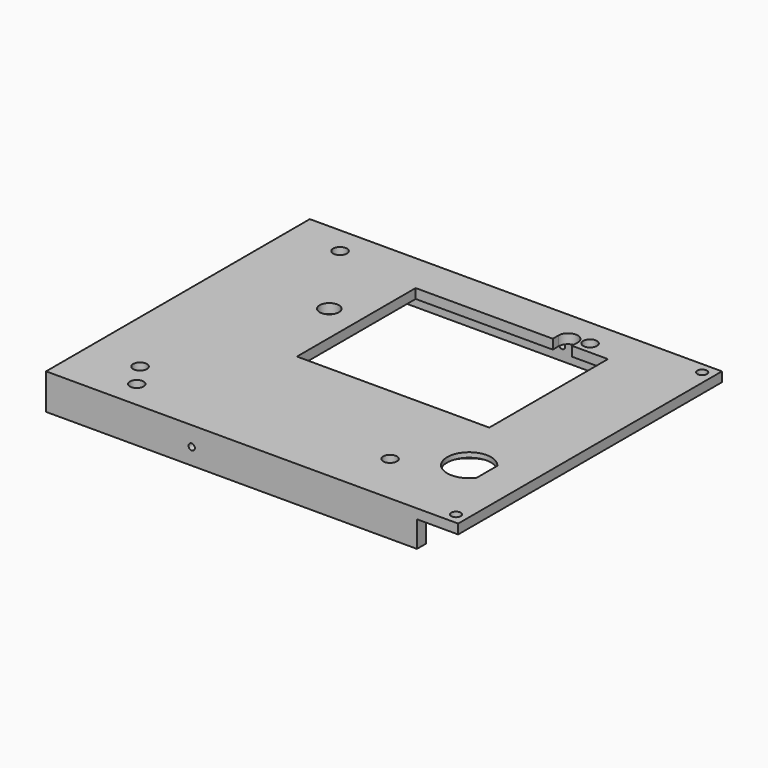
from build123d import *

# Parameters (mm, degrees)
COPYSKETCH010_W   = 150
COPYSKETCH010_H   = 120
COPYSKETCH010_R   = 2.5
COPYSKETCH010_R_2 = 3.5
COPYSKETCH010_R_3 = 1.75
PAD_DEPTH         = 3.5
PAD001_DEPTH      = 13
SKETCH001_R       = 1.75
POCKET_DEPTH      = 5
SKETCH002_R       = 1.15
POCKET001_DEPTH   = 5
SKETCH003_R       = 1.15
POCKET002_DEPTH   = 5
SKETCH004_R       = 11
POCKET003_DEPTH   = 1.75


with BuildPart() as part:
    # CopySketch010 → Pad (new body)
    with BuildSketch(Plane(origin=(0, 0, 0), x_dir=(-1, 0, 0), z_dir=(0, 0, -1))):
        with Locations((-75, 0)):
            Rectangle(COPYSKETCH010_W, COPYSKETCH010_H)
        with Locations((-110, 50)):
            Circle(COPYSKETCH010_R, mode=Mode.SUBTRACT)
        with Locations((-110, -41)):
            Circle(COPYSKETCH010_R, mode=Mode.SUBTRACT)
        with Locations((-19, -41)):
            Circle(COPYSKETCH010_R, mode=Mode.SUBTRACT)
        with Locations((-19, 50)):
            Circle(COPYSKETCH010_R, mode=Mode.SUBTRACT)
        with Locations((-38.79, 20.377)):
            Circle(COPYSKETCH010_R_2, mode=Mode.SUBTRACT)
        with Locations((-146, 56)):
            Circle(COPYSKETCH010_R_3, mode=Mode.SUBTRACT)
        with Locations((-146, -56)):
            Circle(COPYSKETCH010_R_3, mode=Mode.SUBTRACT)
        with Locations((-25, -50)):
            Circle(COPYSKETCH010_R, mode=Mode.SUBTRACT)
        with BuildLine():
            Line((-50, -8.35), (-120, -8.35))
            Line((-120, -8.35), (-120, 45.65))
            Line((-120, 45.65), (-106.908, 45.65))
            Line((-106.908, 48.264), (-106.908, 45.65))
            ThreePointArc((-99.908002, 48.26), (-103.406, 51.763999), (-106.908, 48.264))
            Line((-99.908002, 48.26), (-99.908002, 45.65))
            Line((-99.908002, 45.65), (-50, 45.65))
            Line((-50, 45.65), (-50, -8.35))
        make_face(mode=Mode.SUBTRACT)
        with BuildLine():
            ThreePointArc((-136.5, -34.66369), (-122, -30), (-136.5, -25.33631))
            Line((-136.5, -34.66369), (-136.5, -25.33631))
        make_face(mode=Mode.SUBTRACT)
    extrude(amount=PAD_DEPTH)

    # Sketch (on Face23 of Pad) → Pad001 (join)
    with BuildSketch(Plane.XY):
        Polygon((135, 60), (135, 56), (4, 56), (4, -56), (135, -56), (135, -60), (0, -60), (0, 60), align=None)
    extrude(amount=-PAD001_DEPTH)

    # Sketch001 → Pocket (cut)
    with BuildSketch(Plane.YZ):
        with Locations((0, -8.5)):
            Circle(SKETCH001_R)
        with Locations((50, -8.5)):
            Circle(SKETCH001_R)
        with Locations((-50, -8.5)):
            Circle(SKETCH001_R)
    extrude(amount=POCKET_DEPTH, mode=Mode.SUBTRACT)

    # Sketch002 → Pocket001 (cut)
    with BuildSketch(Plane.XZ.offset(60)):
        with Locations((53, -7)):
            Circle(SKETCH002_R)
    extrude(amount=-POCKET001_DEPTH, mode=Mode.SUBTRACT)

    # Sketch003 → Pocket002 (cut)
    with BuildSketch(Plane.XZ.offset(-60)):
        with Locations((25, -8)):
            Circle(SKETCH003_R)
        with Locations((125, -8)):
            Circle(SKETCH003_R)
        with Locations((95, -8)):
            Circle(SKETCH003_R)
        with Locations((55, -8)):
            Circle(SKETCH003_R)
    extrude(amount=POCKET002_DEPTH, mode=Mode.SUBTRACT)

    # Sketch004 → Pocket003 (cut)
    with BuildSketch(Plane.XY.offset(-3.5)):
        with Locations((130, -30)):
            Circle(SKETCH004_R)
    extrude(amount=POCKET003_DEPTH, mode=Mode.SUBTRACT)


solid = part.part
